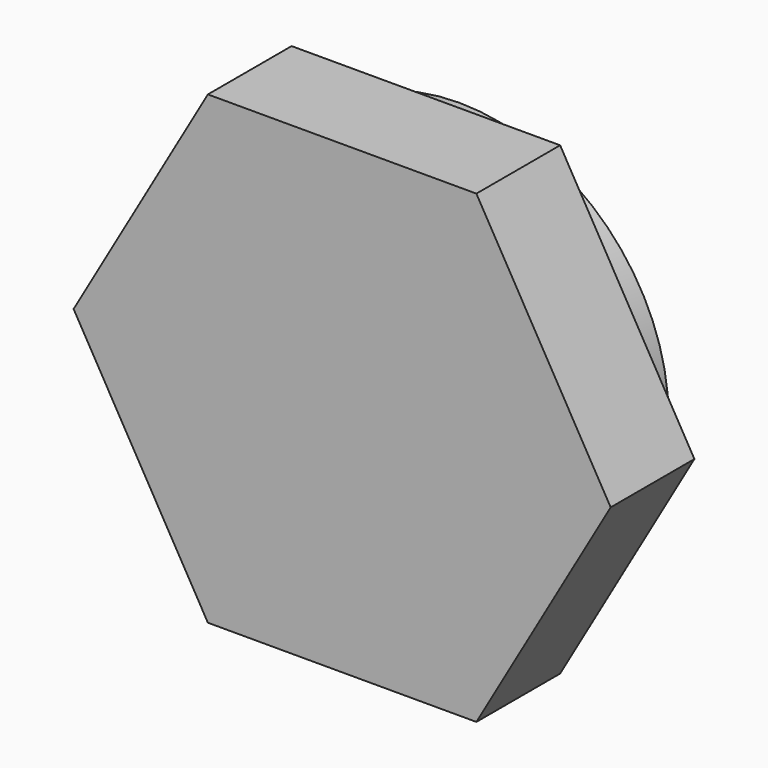
from build123d import *

# Parameters (mm, degrees)
F1_DEPTH = 2.5
F2_R     = 5
F3_DEPTH = 1


with BuildPart() as f1:
    # F0 (on Front) → F1 (new body)
    with BuildSketch(Plane.XZ):
        Polygon((3.207181, 5.555), (-3.207181, 5.555), (-6.414361, 0), (-3.207181, -5.555), (3.207181, -5.555), (6.414361, 0), align=None)
    extrude(amount=F1_DEPTH)

    # F2 (on Front) → F3 (join)
    with BuildSketch(Plane.XZ):
        Circle(F2_R)
    extrude(amount=-F3_DEPTH)


solid = f1.part
